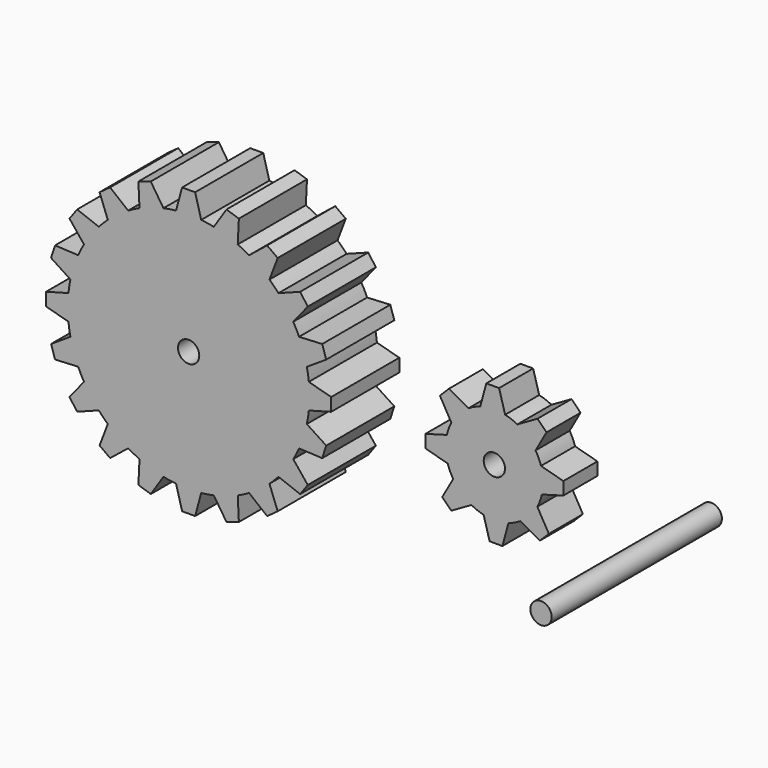
from build123d import *

# Parameters (mm, degrees)
F0_R     = 6.35
F1_DEPTH = 25.4
F2_DEPTH = 25.4
F4_R     = 6.35
F5_DEPTH = 127


with BuildPart() as f1:
    # F0 (on Front) → F1 (new body)
    with BuildSketch(Plane.XZ):
        with BuildLine():
            ThreePointArc((-205.7925341176, 15.023832812), (-203.8454559601, 22.2841019382), (-201.1531961589, 29.3022468712))
            Line((-201.1531961589, 29.3022468712), (-214.9587434823, 29.980743568))
            Line((-214.9587434823, 29.980743568), (-217.3602668711, 22.5896145702))
            Line((-217.3602668711, 22.5896145702), (-205.7925341176, 15.023832812))
        make_face()
        with BuildLine():
            ThreePointArc((-63.5409387686, -7.5066065026), (-63.2471814887, -3.7584112713), (-63.1491735943, 0))
            ThreePointArc((-63.1491735943, 0), (-63.2471814887, 3.7584112713), (-63.5409387686, 7.5066065026))
            ThreePointArc((-63.5409387686, 7.5066065026), (-64.0370026723, 11.280938036), (-64.7315504504, 15.023832812))
            ThreePointArc((-64.7315504504, 15.023832812), (-66.6786286079, 22.2841019382), (-69.3708884092, 29.3022468712))
            ThreePointArc((-69.3708884092, 29.3022468712), (-71.0090058036, 32.7385572941), (-72.8261780877, 36.0836346938))
            ThreePointArc((-72.8261780877, 36.0836346938), (-76.9215060009, 42.3868807163), (-81.6507232817, 48.2295791552))
            ThreePointArc((-81.6507232817, 48.2295791552), (-84.2705438227, 50.9914984613), (-87.0324631288, 53.6113190023))
            ThreePointArc((-87.0324631288, 53.6113190023), (-92.8751615677, 58.3405362831), (-99.1784075902, 62.4358641963))
            ThreePointArc((-99.1784075902, 62.4358641963), (-102.5234849899, 64.2530364804), (-105.9597954129, 65.8911538748))
            ThreePointArc((-105.9597954129, 65.8911538748), (-112.9779403458, 68.5834136761), (-120.238209472, 70.5304918336))
            ThreePointArc((-120.238209472, 70.5304918336), (-123.981104248, 71.2250396117), (-127.7554357814, 71.7211035154))
            ThreePointArc((-127.7554357814, 71.7211035154), (-135.262042284, 72.1128686897), (-142.7686487866, 71.7211035154))
            ThreePointArc((-142.7686487866, 71.7211035154), (-146.54298032, 71.2250396117), (-150.285875096, 70.5304918336))
            ThreePointArc((-150.285875096, 70.5304918336), (-157.5461442223, 68.5834136761), (-164.5642891552, 65.8911538748))
            ThreePointArc((-164.5642891552, 65.8911538748), (-168.0005995781, 64.2530364804), (-171.3456769778, 62.4358641963))
            ThreePointArc((-171.3456769778, 62.4358641963), (-177.6489230003, 58.3405362831), (-183.4916214392, 53.6113190023))
            ThreePointArc((-183.4916214392, 53.6113190023), (-186.2535407453, 50.9914984613), (-188.8733612863, 48.2295791552))
            ThreePointArc((-188.8733612863, 48.2295791552), (-193.6025785671, 42.3868807163), (-197.6979064803, 36.0836346938))
            ThreePointArc((-197.6979064803, 36.0836346938), (-199.5150787645, 32.7385572941), (-201.1531961589, 29.3022468712))
            ThreePointArc((-201.1531961589, 29.3022468712), (-203.8454559601, 22.2841019382), (-205.7925341176, 15.023832812))
            ThreePointArc((-205.7925341176, 15.023832812), (-206.4870818957, 11.280938036), (-206.9831457994, 7.5066065026))
            ThreePointArc((-206.9831457994, 7.5066065026), (-207.3749109737, 0), (-206.9831457994, -7.5066065026))
            ThreePointArc((-206.9831457994, -7.5066065026), (-206.4870818957, -11.280938036), (-205.7925341176, -15.023832812))
            ThreePointArc((-205.7925341176, -15.023832812), (-203.8454559601, -22.2841019382), (-201.1531961589, -29.3022468712))
            ThreePointArc((-201.1531961589, -29.3022468712), (-199.5150787645, -32.7385572941), (-197.6979064803, -36.0836346938))
            ThreePointArc((-197.6979064803, -36.0836346938), (-193.6025785671, -42.3868807163), (-188.8733612863, -48.2295791552))
            ThreePointArc((-188.8733612863, -48.2295791552), (-186.2535407453, -50.9914984613), (-183.4916214392, -53.6113190023))
            ThreePointArc((-183.4916214392, -53.6113190023), (-177.6489230003, -58.3405362831), (-171.3456769778, -62.4358641963))
            ThreePointArc((-171.3456769778, -62.4358641963), (-168.0005995781, -64.2530364804), (-164.5642891552, -65.8911538748))
            ThreePointArc((-164.5642891552, -65.8911538748), (-157.5461442223, -68.5834136761), (-150.285875096, -70.5304918336))
            ThreePointArc((-150.285875096, -70.5304918336), (-146.54298032, -71.2250396117), (-142.7686487866, -71.7211035154))
            ThreePointArc((-142.7686487866, -71.7211035154), (-135.262042284, -72.1128686897), (-127.7554357814, -71.7211035154))
            ThreePointArc((-127.7554357814, -71.7211035154), (-123.981104248, -71.2250396117), (-120.238209472, -70.5304918336))
            ThreePointArc((-120.238209472, -70.5304918336), (-112.9779403458, -68.5834136761), (-105.9597954129, -65.8911538748))
            ThreePointArc((-105.9597954129, -65.8911538748), (-102.5234849899, -64.2530364804), (-99.1784075902, -62.4358641963))
            ThreePointArc((-99.1784075902, -62.4358641963), (-92.8751615677, -58.3405362831), (-87.0324631288, -53.6113190023))
            ThreePointArc((-87.0324631288, -53.6113190023), (-84.2705438227, -50.9914984613), (-81.6507232817, -48.2295791552))
            ThreePointArc((-81.6507232817, -48.2295791552), (-76.9215060009, -42.3868807163), (-72.8261780877, -36.0836346938))
            ThreePointArc((-72.8261780877, -36.0836346938), (-71.0090058036, -32.7385572941), (-69.3708884092, -29.3022468712))
            ThreePointArc((-69.3708884092, -29.3022468712), (-66.6786286079, -22.2841019382), (-64.7315504504, -15.023832812))
            ThreePointArc((-64.7315504504, -15.023832812), (-64.0370026723, -11.280938036), (-63.5409387686, -7.5066065026))
        make_face()
        with Locations((-135.262042284, 0)):
            Circle(F0_R, mode=Mode.SUBTRACT)
        with BuildLine():
            ThreePointArc((-197.6979064803, 36.0836346938), (-193.6025785671, 42.3868807163), (-188.8733612863, 48.2295791552))
            Line((-188.8733612863, 48.2295791552), (-201.7935500194, 53.1410165996))
            Line((-201.7935500194, 53.1410165996), (-206.3615189553, 46.853746743))
            Line((-206.3615189553, 46.853746743), (-197.6979064803, 36.0836346938))
        make_face()
        with BuildLine():
            ThreePointArc((-183.4916214392, 53.6113190023), (-177.6489230003, 58.3405362831), (-171.3456769778, 62.4358641963))
            Line((-171.3456769778, 62.4358641963), (-182.115789027, 71.0994766713))
            Line((-182.115789027, 71.0994766713), (-188.4030588837, 66.5315077353))
            Line((-188.4030588837, 66.5315077353), (-183.4916214392, 53.6113190023))
        make_face()
        with BuildLine():
            ThreePointArc((-164.5642891552, 65.8911538748), (-157.5461442223, 68.5834136761), (-150.285875096, 70.5304918336))
            Line((-150.285875096, 70.5304918336), (-157.8516568542, 82.0982245871))
            Line((-157.8516568542, 82.0982245871), (-165.242785852, 79.6967011983))
            Line((-165.242785852, 79.6967011983), (-164.5642891552, 65.8911538748))
        make_face()
        with BuildLine():
            ThreePointArc((-142.7686487866, 71.7211035154), (-135.262042284, 72.1128686897), (-127.7554357814, 71.7211035154))
            Line((-127.7554357814, 71.7211035154), (-131.3762958162, 85.0606262684))
            Line((-131.3762958162, 85.0606262684), (-139.1477887519, 85.0606262684))
            Line((-139.1477887519, 85.0606262684), (-142.7686487866, 71.7211035154))
        make_face()
        with BuildLine():
            ThreePointArc((-120.238209472, 70.5304918336), (-112.9779403458, 68.5834136761), (-105.9597954129, 65.8911538748))
            Line((-105.9597954129, 65.8911538748), (-105.281298716, 79.6967011983))
            Line((-105.281298716, 79.6967011983), (-112.6724277138, 82.0982245871))
            Line((-112.6724277138, 82.0982245871), (-120.238209472, 70.5304918336))
        make_face()
        with BuildLine():
            ThreePointArc((-99.1784075902, 62.4358641963), (-92.8751615677, 58.3405362831), (-87.0324631288, 53.6113190023))
            Line((-87.0324631288, 53.6113190023), (-82.1210256844, 66.5315077353))
            Line((-82.1210256844, 66.5315077353), (-88.408295541, 71.0994766713))
            Line((-88.408295541, 71.0994766713), (-99.1784075902, 62.4358641963))
        make_face()
        with BuildLine():
            ThreePointArc((-81.6507232817, 48.2295791552), (-76.9215060009, 42.3868807163), (-72.8261780877, 36.0836346938))
            Line((-72.8261780877, 36.0836346938), (-64.1625656128, 46.853746743))
            Line((-64.1625656128, 46.853746743), (-68.7305345487, 53.1410165996))
            Line((-68.7305345487, 53.1410165996), (-81.6507232817, 48.2295791552))
        make_face()
        with BuildLine():
            ThreePointArc((-69.3708884092, 29.3022468712), (-66.6786286079, 22.2841019382), (-64.7315504504, 15.023832812))
            Line((-64.7315504504, 15.023832812), (-53.1638176969, 22.5896145702))
            Line((-53.1638176969, 22.5896145702), (-55.5653410857, 29.980743568))
            Line((-55.5653410857, 29.980743568), (-69.3708884092, 29.3022468712))
        make_face()
        with BuildLine():
            ThreePointArc((-63.5409387686, 7.5066065026), (-63.2471814887, 3.7584112713), (-63.1491735943, 0))
            ThreePointArc((-63.1491735943, 0), (-63.2471814887, -3.7584112713), (-63.5409387686, -7.5066065026))
            Line((-63.5409387686, -7.5066065026), (-50.2014160156, -3.8857464679))
            Line((-50.2014160156, -3.8857464679), (-50.2014160156, 3.8857464679))
            Line((-50.2014160156, 3.8857464679), (-63.5409387686, 7.5066065026))
        make_face()
        with BuildLine():
            Line((-53.1638176969, -22.5896145702), (-64.7315504504, -15.023832812))
            ThreePointArc((-64.7315504504, -15.023832812), (-66.6786286079, -22.2841019382), (-69.3708884092, -29.3022468712))
            Line((-69.3708884092, -29.3022468712), (-55.5653410857, -29.980743568))
            Line((-55.5653410857, -29.980743568), (-53.1638176969, -22.5896145702))
        make_face()
        with BuildLine():
            Line((-64.1625656128, -46.853746743), (-72.8261780877, -36.0836346938))
            ThreePointArc((-72.8261780877, -36.0836346938), (-76.9215060009, -42.3868807163), (-81.6507232817, -48.2295791552))
            Line((-81.6507232817, -48.2295791552), (-68.7305345487, -53.1410165996))
            Line((-68.7305345487, -53.1410165996), (-64.1625656128, -46.853746743))
        make_face()
        with BuildLine():
            Line((-82.1210256844, -66.5315077353), (-87.0324631288, -53.6113190023))
            ThreePointArc((-87.0324631288, -53.6113190023), (-92.8751615677, -58.3405362831), (-99.1784075902, -62.4358641963))
            Line((-99.1784075902, -62.4358641963), (-88.408295541, -71.0994766713))
            Line((-88.408295541, -71.0994766713), (-82.1210256844, -66.5315077353))
        make_face()
        with BuildLine():
            Line((-105.281298716, -79.6967011983), (-105.9597954129, -65.8911538748))
            ThreePointArc((-105.9597954129, -65.8911538748), (-112.9779403458, -68.5834136761), (-120.238209472, -70.5304918336))
            Line((-120.238209472, -70.5304918336), (-112.6724277138, -82.0982245871))
            Line((-112.6724277138, -82.0982245871), (-105.281298716, -79.6967011983))
        make_face()
        with BuildLine():
            Line((-131.3762958162, -85.0606262684), (-127.7554357814, -71.7211035154))
            ThreePointArc((-127.7554357814, -71.7211035154), (-135.262042284, -72.1128686897), (-142.7686487866, -71.7211035154))
            Line((-142.7686487866, -71.7211035154), (-139.1477887519, -85.0606262684))
            Line((-139.1477887519, -85.0606262684), (-131.3762958162, -85.0606262684))
        make_face()
        with BuildLine():
            Line((-157.8516568542, -82.0982245871), (-150.285875096, -70.5304918336))
            ThreePointArc((-150.285875096, -70.5304918336), (-157.5461442223, -68.5834136761), (-164.5642891552, -65.8911538748))
            Line((-164.5642891552, -65.8911538748), (-165.242785852, -79.6967011983))
            Line((-165.242785852, -79.6967011983), (-157.8516568542, -82.0982245871))
        make_face()
        with BuildLine():
            Line((-182.115789027, -71.0994766713), (-171.3456769778, -62.4358641963))
            ThreePointArc((-171.3456769778, -62.4358641963), (-177.6489230003, -58.3405362831), (-183.4916214392, -53.6113190023))
            Line((-183.4916214392, -53.6113190023), (-188.4030588837, -66.5315077353))
            Line((-188.4030588837, -66.5315077353), (-182.115789027, -71.0994766713))
        make_face()
        with BuildLine():
            Line((-201.7935500194, -53.1410165996), (-188.8733612863, -48.2295791552))
            ThreePointArc((-188.8733612863, -48.2295791552), (-193.6025785671, -42.3868807163), (-197.6979064803, -36.0836346938))
            Line((-197.6979064803, -36.0836346938), (-206.3615189553, -46.853746743))
            Line((-206.3615189553, -46.853746743), (-201.7935500194, -53.1410165996))
        make_face()
        with BuildLine():
            Line((-214.9587434823, -29.980743568), (-201.1531961589, -29.3022468712))
            ThreePointArc((-201.1531961589, -29.3022468712), (-203.8454559601, -22.2841019382), (-205.7925341176, -15.023832812))
            Line((-205.7925341176, -15.023832812), (-217.3602668711, -22.5896145702))
            Line((-217.3602668711, -22.5896145702), (-214.9587434823, -29.980743568))
        make_face()
        with BuildLine():
            ThreePointArc((-206.9831457994, -7.5066065026), (-207.3749109737, 0), (-206.9831457994, 7.5066065026))
            Line((-206.9831457994, 7.5066065026), (-220.3226685524, 3.8857464679))
            Line((-220.3226685524, 3.8857464679), (-220.3226685524, -3.8857464679))
            Line((-220.3226685524, -3.8857464679), (-206.9831457994, -7.5066065026))
        make_face()
    extrude(amount=-F1_DEPTH)

    # F0 (on Front) → F2 (join)
    with BuildSketch(Plane.XZ):
        with BuildLine():
            ThreePointArc((-63.5409387686, -7.5066065026), (-63.2471814887, -3.7584112713), (-63.1491735943, 0))
            ThreePointArc((-63.1491735943, 0), (-63.2471814887, 3.7584112713), (-63.5409387686, 7.5066065026))
            ThreePointArc((-63.5409387686, 7.5066065026), (-64.0370026723, 11.280938036), (-64.7315504504, 15.023832812))
            ThreePointArc((-64.7315504504, 15.023832812), (-66.6786286079, 22.2841019382), (-69.3708884092, 29.3022468712))
            ThreePointArc((-69.3708884092, 29.3022468712), (-71.0090058036, 32.7385572941), (-72.8261780877, 36.0836346938))
            ThreePointArc((-72.8261780877, 36.0836346938), (-76.9215060009, 42.3868807163), (-81.6507232817, 48.2295791552))
            ThreePointArc((-81.6507232817, 48.2295791552), (-84.2705438227, 50.9914984613), (-87.0324631288, 53.6113190023))
            ThreePointArc((-87.0324631288, 53.6113190023), (-92.8751615677, 58.3405362831), (-99.1784075902, 62.4358641963))
            ThreePointArc((-99.1784075902, 62.4358641963), (-102.5234849899, 64.2530364804), (-105.9597954129, 65.8911538748))
            ThreePointArc((-105.9597954129, 65.8911538748), (-112.9779403458, 68.5834136761), (-120.238209472, 70.5304918336))
            ThreePointArc((-120.238209472, 70.5304918336), (-123.981104248, 71.2250396117), (-127.7554357814, 71.7211035154))
            ThreePointArc((-127.7554357814, 71.7211035154), (-135.262042284, 72.1128686897), (-142.7686487866, 71.7211035154))
            ThreePointArc((-142.7686487866, 71.7211035154), (-146.54298032, 71.2250396117), (-150.285875096, 70.5304918336))
            ThreePointArc((-150.285875096, 70.5304918336), (-157.5461442223, 68.5834136761), (-164.5642891552, 65.8911538748))
            ThreePointArc((-164.5642891552, 65.8911538748), (-168.0005995781, 64.2530364804), (-171.3456769778, 62.4358641963))
            ThreePointArc((-171.3456769778, 62.4358641963), (-177.6489230003, 58.3405362831), (-183.4916214392, 53.6113190023))
            ThreePointArc((-183.4916214392, 53.6113190023), (-186.2535407453, 50.9914984613), (-188.8733612863, 48.2295791552))
            ThreePointArc((-188.8733612863, 48.2295791552), (-193.6025785671, 42.3868807163), (-197.6979064803, 36.0836346938))
            ThreePointArc((-197.6979064803, 36.0836346938), (-199.5150787645, 32.7385572941), (-201.1531961589, 29.3022468712))
            ThreePointArc((-201.1531961589, 29.3022468712), (-203.8454559601, 22.2841019382), (-205.7925341176, 15.023832812))
            ThreePointArc((-205.7925341176, 15.023832812), (-206.4870818957, 11.280938036), (-206.9831457994, 7.5066065026))
            ThreePointArc((-206.9831457994, 7.5066065026), (-207.3749109737, 0), (-206.9831457994, -7.5066065026))
            ThreePointArc((-206.9831457994, -7.5066065026), (-206.4870818957, -11.280938036), (-205.7925341176, -15.023832812))
            ThreePointArc((-205.7925341176, -15.023832812), (-203.8454559601, -22.2841019382), (-201.1531961589, -29.3022468712))
            ThreePointArc((-201.1531961589, -29.3022468712), (-199.5150787645, -32.7385572941), (-197.6979064803, -36.0836346938))
            ThreePointArc((-197.6979064803, -36.0836346938), (-193.6025785671, -42.3868807163), (-188.8733612863, -48.2295791552))
            ThreePointArc((-188.8733612863, -48.2295791552), (-186.2535407453, -50.9914984613), (-183.4916214392, -53.6113190023))
            ThreePointArc((-183.4916214392, -53.6113190023), (-177.6489230003, -58.3405362831), (-171.3456769778, -62.4358641963))
            ThreePointArc((-171.3456769778, -62.4358641963), (-168.0005995781, -64.2530364804), (-164.5642891552, -65.8911538748))
            ThreePointArc((-164.5642891552, -65.8911538748), (-157.5461442223, -68.5834136761), (-150.285875096, -70.5304918336))
            ThreePointArc((-150.285875096, -70.5304918336), (-146.54298032, -71.2250396117), (-142.7686487866, -71.7211035154))
            ThreePointArc((-142.7686487866, -71.7211035154), (-135.262042284, -72.1128686897), (-127.7554357814, -71.7211035154))
            ThreePointArc((-127.7554357814, -71.7211035154), (-123.981104248, -71.2250396117), (-120.238209472, -70.5304918336))
            ThreePointArc((-120.238209472, -70.5304918336), (-112.9779403458, -68.5834136761), (-105.9597954129, -65.8911538748))
            ThreePointArc((-105.9597954129, -65.8911538748), (-102.5234849899, -64.2530364804), (-99.1784075902, -62.4358641963))
            ThreePointArc((-99.1784075902, -62.4358641963), (-92.8751615677, -58.3405362831), (-87.0324631288, -53.6113190023))
            ThreePointArc((-87.0324631288, -53.6113190023), (-84.2705438227, -50.9914984613), (-81.6507232817, -48.2295791552))
            ThreePointArc((-81.6507232817, -48.2295791552), (-76.9215060009, -42.3868807163), (-72.8261780877, -36.0836346938))
            ThreePointArc((-72.8261780877, -36.0836346938), (-71.0090058036, -32.7385572941), (-69.3708884092, -29.3022468712))
            ThreePointArc((-69.3708884092, -29.3022468712), (-66.6786286079, -22.2841019382), (-64.7315504504, -15.023832812))
            ThreePointArc((-64.7315504504, -15.023832812), (-64.0370026723, -11.280938036), (-63.5409387686, -7.5066065026))
        make_face()
        with Locations((-135.262042284, 0)):
            Circle(F0_R, mode=Mode.SUBTRACT)
        with BuildLine():
            ThreePointArc((-63.5409387686, 7.5066065026), (-63.2471814887, 3.7584112713), (-63.1491735943, 0))
            ThreePointArc((-63.1491735943, 0), (-63.2471814887, -3.7584112713), (-63.5409387686, -7.5066065026))
            Line((-63.5409387686, -7.5066065026), (-50.2014160156, -3.8857464679))
            Line((-50.2014160156, -3.8857464679), (-50.2014160156, 3.8857464679))
            Line((-50.2014160156, 3.8857464679), (-63.5409387686, 7.5066065026))
        make_face()
        with BuildLine():
            ThreePointArc((-69.3708884092, 29.3022468712), (-66.6786286079, 22.2841019382), (-64.7315504504, 15.023832812))
            Line((-64.7315504504, 15.023832812), (-53.1638176969, 22.5896145702))
            Line((-53.1638176969, 22.5896145702), (-55.5653410857, 29.980743568))
            Line((-55.5653410857, 29.980743568), (-69.3708884092, 29.3022468712))
        make_face()
        with BuildLine():
            Line((-53.1638176969, -22.5896145702), (-64.7315504504, -15.023832812))
            ThreePointArc((-64.7315504504, -15.023832812), (-66.6786286079, -22.2841019382), (-69.3708884092, -29.3022468712))
            Line((-69.3708884092, -29.3022468712), (-55.5653410857, -29.980743568))
            Line((-55.5653410857, -29.980743568), (-53.1638176969, -22.5896145702))
        make_face()
        with BuildLine():
            ThreePointArc((-81.6507232817, 48.2295791552), (-76.9215060009, 42.3868807163), (-72.8261780877, 36.0836346938))
            Line((-72.8261780877, 36.0836346938), (-64.1625656128, 46.853746743))
            Line((-64.1625656128, 46.853746743), (-68.7305345487, 53.1410165996))
            Line((-68.7305345487, 53.1410165996), (-81.6507232817, 48.2295791552))
        make_face()
        with BuildLine():
            Line((-64.1625656128, -46.853746743), (-72.8261780877, -36.0836346938))
            ThreePointArc((-72.8261780877, -36.0836346938), (-76.9215060009, -42.3868807163), (-81.6507232817, -48.2295791552))
            Line((-81.6507232817, -48.2295791552), (-68.7305345487, -53.1410165996))
            Line((-68.7305345487, -53.1410165996), (-64.1625656128, -46.853746743))
        make_face()
        with BuildLine():
            ThreePointArc((-99.1784075902, 62.4358641963), (-92.8751615677, 58.3405362831), (-87.0324631288, 53.6113190023))
            Line((-87.0324631288, 53.6113190023), (-82.1210256844, 66.5315077353))
            Line((-82.1210256844, 66.5315077353), (-88.408295541, 71.0994766713))
            Line((-88.408295541, 71.0994766713), (-99.1784075902, 62.4358641963))
        make_face()
        with BuildLine():
            Line((-82.1210256844, -66.5315077353), (-87.0324631288, -53.6113190023))
            ThreePointArc((-87.0324631288, -53.6113190023), (-92.8751615677, -58.3405362831), (-99.1784075902, -62.4358641963))
            Line((-99.1784075902, -62.4358641963), (-88.408295541, -71.0994766713))
            Line((-88.408295541, -71.0994766713), (-82.1210256844, -66.5315077353))
        make_face()
        with BuildLine():
            ThreePointArc((-120.238209472, 70.5304918336), (-112.9779403458, 68.5834136761), (-105.9597954129, 65.8911538748))
            Line((-105.9597954129, 65.8911538748), (-105.281298716, 79.6967011983))
            Line((-105.281298716, 79.6967011983), (-112.6724277138, 82.0982245871))
            Line((-112.6724277138, 82.0982245871), (-120.238209472, 70.5304918336))
        make_face()
        with BuildLine():
            Line((-105.281298716, -79.6967011983), (-105.9597954129, -65.8911538748))
            ThreePointArc((-105.9597954129, -65.8911538748), (-112.9779403458, -68.5834136761), (-120.238209472, -70.5304918336))
            Line((-120.238209472, -70.5304918336), (-112.6724277138, -82.0982245871))
            Line((-112.6724277138, -82.0982245871), (-105.281298716, -79.6967011983))
        make_face()
        with BuildLine():
            ThreePointArc((-142.7686487866, 71.7211035154), (-135.262042284, 72.1128686897), (-127.7554357814, 71.7211035154))
            Line((-127.7554357814, 71.7211035154), (-131.3762958162, 85.0606262684))
            Line((-131.3762958162, 85.0606262684), (-139.1477887519, 85.0606262684))
            Line((-139.1477887519, 85.0606262684), (-142.7686487866, 71.7211035154))
        make_face()
        with BuildLine():
            Line((-131.3762958162, -85.0606262684), (-127.7554357814, -71.7211035154))
            ThreePointArc((-127.7554357814, -71.7211035154), (-135.262042284, -72.1128686897), (-142.7686487866, -71.7211035154))
            Line((-142.7686487866, -71.7211035154), (-139.1477887519, -85.0606262684))
            Line((-139.1477887519, -85.0606262684), (-131.3762958162, -85.0606262684))
        make_face()
        with BuildLine():
            ThreePointArc((-164.5642891552, 65.8911538748), (-157.5461442223, 68.5834136761), (-150.285875096, 70.5304918336))
            Line((-150.285875096, 70.5304918336), (-157.8516568542, 82.0982245871))
            Line((-157.8516568542, 82.0982245871), (-165.242785852, 79.6967011983))
            Line((-165.242785852, 79.6967011983), (-164.5642891552, 65.8911538748))
        make_face()
        with BuildLine():
            Line((-157.8516568542, -82.0982245871), (-150.285875096, -70.5304918336))
            ThreePointArc((-150.285875096, -70.5304918336), (-157.5461442223, -68.5834136761), (-164.5642891552, -65.8911538748))
            Line((-164.5642891552, -65.8911538748), (-165.242785852, -79.6967011983))
            Line((-165.242785852, -79.6967011983), (-157.8516568542, -82.0982245871))
        make_face()
        with BuildLine():
            ThreePointArc((-183.4916214392, 53.6113190023), (-177.6489230003, 58.3405362831), (-171.3456769778, 62.4358641963))
            Line((-171.3456769778, 62.4358641963), (-182.115789027, 71.0994766713))
            Line((-182.115789027, 71.0994766713), (-188.4030588837, 66.5315077353))
            Line((-188.4030588837, 66.5315077353), (-183.4916214392, 53.6113190023))
        make_face()
        with BuildLine():
            Line((-182.115789027, -71.0994766713), (-171.3456769778, -62.4358641963))
            ThreePointArc((-171.3456769778, -62.4358641963), (-177.6489230003, -58.3405362831), (-183.4916214392, -53.6113190023))
            Line((-183.4916214392, -53.6113190023), (-188.4030588837, -66.5315077353))
            Line((-188.4030588837, -66.5315077353), (-182.115789027, -71.0994766713))
        make_face()
        with BuildLine():
            ThreePointArc((-197.6979064803, 36.0836346938), (-193.6025785671, 42.3868807163), (-188.8733612863, 48.2295791552))
            Line((-188.8733612863, 48.2295791552), (-201.7935500194, 53.1410165996))
            Line((-201.7935500194, 53.1410165996), (-206.3615189553, 46.853746743))
            Line((-206.3615189553, 46.853746743), (-197.6979064803, 36.0836346938))
        make_face()
        with BuildLine():
            Line((-201.7935500194, -53.1410165996), (-188.8733612863, -48.2295791552))
            ThreePointArc((-188.8733612863, -48.2295791552), (-193.6025785671, -42.3868807163), (-197.6979064803, -36.0836346938))
            Line((-197.6979064803, -36.0836346938), (-206.3615189553, -46.853746743))
            Line((-206.3615189553, -46.853746743), (-201.7935500194, -53.1410165996))
        make_face()
        with BuildLine():
            ThreePointArc((-205.7925341176, 15.023832812), (-203.8454559601, 22.2841019382), (-201.1531961589, 29.3022468712))
            Line((-201.1531961589, 29.3022468712), (-214.9587434823, 29.980743568))
            Line((-214.9587434823, 29.980743568), (-217.3602668711, 22.5896145702))
            Line((-217.3602668711, 22.5896145702), (-205.7925341176, 15.023832812))
        make_face()
        with BuildLine():
            Line((-214.9587434823, -29.980743568), (-201.1531961589, -29.3022468712))
            ThreePointArc((-201.1531961589, -29.3022468712), (-203.8454559601, -22.2841019382), (-205.7925341176, -15.023832812))
            Line((-205.7925341176, -15.023832812), (-217.3602668711, -22.5896145702))
            Line((-217.3602668711, -22.5896145702), (-214.9587434823, -29.980743568))
        make_face()
        with BuildLine():
            ThreePointArc((-206.9831457994, -7.5066065026), (-207.3749109737, 0), (-206.9831457994, 7.5066065026))
            Line((-206.9831457994, 7.5066065026), (-220.3226685524, 3.8857464679))
            Line((-220.3226685524, 3.8857464679), (-220.3226685524, -3.8857464679))
            Line((-220.3226685524, -3.8857464679), (-206.9831457994, -7.5066065026))
        make_face()
    extrude(amount=F2_DEPTH)


with BuildPart() as f2:
    # F0 (on Front) → F2, piece 2 (new body)
    with BuildSketch(Plane.XZ):
        with BuildLine():
            ThreePointArc((75.5328152654, -6.4260124033), (76.0714772134, -3.2330535372), (76.2517765225, 0))
            ThreePointArc((76.2517765225, 0), (75.9381029878, 4.259461141), (75.0038499955, 8.4270229754))
            ThreePointArc((75.0038499955, 8.4270229754), (73.6253698998, 12.0763523665), (71.7708011653, 15.5083178657))
            ThreePointArc((71.7708011653, 15.5083178657), (66.990514806, 21.2793166709), (60.8940841984, 25.6369649739))
            ThreePointArc((60.8940841984, 25.6369649739), (57.3388860158, 27.2426979097), (53.6007418101, 28.3580858586))
            ThreePointArc((53.6007418101, 28.3580858586), (46.1398565201, 29.0586253473), (38.7477064314, 27.8291205887))
            ThreePointArc((38.7477064314, 27.8291205887), (35.0983770403, 26.450640493), (31.6664115412, 24.5960717584))
            ThreePointArc((31.6664115412, 24.5960717584), (25.8954127359, 19.8157853992), (21.537764433, 13.7193547916))
            ThreePointArc((21.537764433, 13.7193547916), (19.9320314972, 10.164156609), (18.8166435483, 6.4260124033))
            ThreePointArc((18.8166435483, 6.4260124033), (18.1161040595, -1.0348728867), (19.3456088181, -8.4270229754))
            ThreePointArc((19.3456088181, -8.4270229754), (20.7240889139, -12.0763523665), (22.5786576484, -15.5083178657))
            ThreePointArc((22.5786576484, -15.5083178657), (27.3589440076, -21.2793166709), (33.4553746153, -25.6369649739))
            ThreePointArc((33.4553746153, -25.6369649739), (37.0105727979, -27.2426979097), (40.7487170035, -28.3580858586))
            ThreePointArc((40.7487170035, -28.3580858586), (48.2096022935, -29.0586253473), (55.6017523823, -27.8291205887))
            ThreePointArc((55.6017523823, -27.8291205887), (59.2510817733, -26.450640493), (62.6830472725, -24.5960717584))
            ThreePointArc((62.6830472725, -24.5960717584), (68.4540460777, -19.8157853992), (72.8116943807, -13.7193547916))
            ThreePointArc((72.8116943807, -13.7193547916), (74.4174273165, -10.164156609), (75.5328152654, -6.4260124033))
        make_face()
        with Locations((47.1747294068, 0)):
            Circle(F0_R, mode=Mode.SUBTRACT)
        with BuildLine():
            ThreePointArc((75.0038499955, 8.4270229754), (75.9381029878, 4.259461141), (76.2517765225, 0))
            ThreePointArc((76.2517765225, 0), (76.0714772134, -3.2330535372), (75.5328152654, -6.4260124033))
            Line((75.5328152654, -6.4260124033), (88.3433727485, -2.8235110362))
            Line((88.3433727485, -2.8235110362), (88.3433727485, 4.8061629407))
            Line((88.3433727485, 4.8061629407), (75.0038499955, 8.4270229754))
        make_face()
        with BuildLine():
            ThreePointArc((60.8940841984, 25.6369649739), (66.990514806, 21.2793166709), (71.7708011653, 15.5083178657))
            Line((71.7708011653, 15.5083178657), (78.2818800864, 27.1141030787))
            Line((78.2818800864, 27.1141030787), (72.8868858791, 32.509097286))
            Line((72.8868858791, 32.509097286), (60.8940841984, 25.6369649739))
        make_face()
        with BuildLine():
            Line((79.6838266928, -25.7121564723), (72.8116943807, -13.7193547916))
            ThreePointArc((72.8116943807, -13.7193547916), (68.4540460777, -19.8157853992), (62.6830472725, -24.5960717584))
            Line((62.6830472725, -24.5960717584), (74.2888324855, -31.1071506796))
            Line((74.2888324855, -31.1071506796), (79.6838266928, -25.7121564723))
        make_face()
        with BuildLine():
            ThreePointArc((38.7477064314, 27.8291205887), (46.1398565201, 29.0586253473), (53.6007418101, 28.3580858586))
            Line((53.6007418101, 28.3580858586), (49.998240443, 41.1686433416))
            Line((49.998240443, 41.1686433416), (42.3685664661, 41.1686433416))
            Line((42.3685664661, 41.1686433416), (38.7477064314, 27.8291205887))
        make_face()
        with BuildLine():
            Line((51.9808923475, -41.1686433416), (55.6017523823, -27.8291205887))
            ThreePointArc((55.6017523823, -27.8291205887), (48.2096022935, -29.0586253473), (40.7487170035, -28.3580858586))
            Line((40.7487170035, -28.3580858586), (44.3512183706, -41.1686433416))
            Line((44.3512183706, -41.1686433416), (51.9808923475, -41.1686433416))
        make_face()
        with BuildLine():
            ThreePointArc((21.537764433, 13.7193547916), (25.8954127359, 19.8157853992), (31.6664115412, 24.5960717584))
            Line((31.6664115412, 24.5960717584), (20.0606263282, 31.1071506796))
            Line((20.0606263282, 31.1071506796), (14.6656321209, 25.7121564723))
            Line((14.6656321209, 25.7121564723), (21.537764433, 13.7193547916))
        make_face()
        with BuildLine():
            Line((21.4625729346, -32.509097286), (33.4553746153, -25.6369649739))
            ThreePointArc((33.4553746153, -25.6369649739), (27.3589440076, -21.2793166709), (22.5786576484, -15.5083178657))
            Line((22.5786576484, -15.5083178657), (16.0675787272, -27.1141030787))
            Line((16.0675787272, -27.1141030787), (21.4625729346, -32.509097286))
        make_face()
        with BuildLine():
            ThreePointArc((19.3456088181, -8.4270229754), (18.1161040595, -1.0348728867), (18.8166435483, 6.4260124033))
            Line((18.8166435483, 6.4260124033), (6.0060860652, 2.8235110362))
            Line((6.0060860652, 2.8235110362), (6.0060860652, -4.8061629407))
            Line((6.0060860652, -4.8061629407), (19.3456088181, -8.4270229754))
        make_face()
    extrude(amount=F2_DEPTH)


with BuildPart() as f2b:
    # F0 (on Front) → F2, piece 3 (new body)
    with BuildSketch(Plane.XZ):
        with Locations((36.2615250051, -79.7994360328)):
            Circle(F0_R)
    extrude(amount=F2_DEPTH)


with BuildPart() as f5:
    # F4 (on Front) → F5 (new body)
    with BuildSketch(Plane.XZ):
        with Locations((54.6935088933, -85.8321785927)):
            Circle(F4_R)
    extrude(amount=-F5_DEPTH)


solid = Compound([f1.part, f2.part, f5.part])
